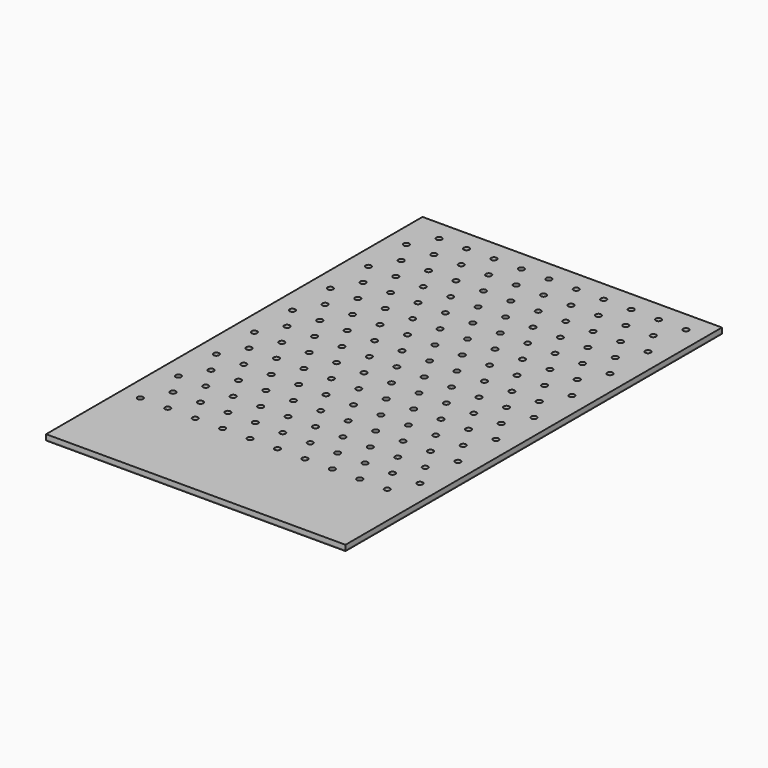
from build123d import *

# Parameters (mm, degrees)
F0_W      = 322
F0_H      = 506
F0_R      = 3
F1_DEPTH  = 5
F2_R      = 3
F3_DEPTH  = 3
F4_W      = 322
F4_H      = 506
F4_R      = 3
F5_DEPTH  = 5
F5_FACE_W = 322
F5_FACE_H = 506
F5_FACE_R = 3
F6_DEPTH  = 1


with BuildPart() as f1:
    # F0 (on Top) → F1 (new body)
    with BuildSketch(Plane.XY):
        with Locations((140.25, 152.25)):
            Rectangle(F0_W, F0_H)
        Circle(F0_R, mode=Mode.SUBTRACT)
        with Locations((14.75, 25.547749)):
            Circle(F0_R, mode=Mode.SUBTRACT)
        with Locations((29.5, 0)):
            Circle(F0_R, mode=Mode.SUBTRACT)
        with Locations((59, 0)):
            Circle(F0_R, mode=Mode.SUBTRACT)
        with Locations((44.25, 25.547749)):
            Circle(F0_R, mode=Mode.SUBTRACT)
        with Locations((73.75, 25.547749)):
            Circle(F0_R, mode=Mode.SUBTRACT)
        with Locations((88.5, 0)):
            Circle(F0_R, mode=Mode.SUBTRACT)
        with Locations((118, 0)):
            Circle(F0_R, mode=Mode.SUBTRACT)
        with Locations((103.25, 25.547749)):
            Circle(F0_R, mode=Mode.SUBTRACT)
        with Locations((132.75, 25.547749)):
            Circle(F0_R, mode=Mode.SUBTRACT)
        with Locations((0, 51.095)):
            Circle(F0_R, mode=Mode.SUBTRACT)
        with Locations((14.75, 76.642749)):
            Circle(F0_R, mode=Mode.SUBTRACT)
        with Locations((29.5, 51.095)):
            Circle(F0_R, mode=Mode.SUBTRACT)
        with Locations((59, 51.095)):
            Circle(F0_R, mode=Mode.SUBTRACT)
        with Locations((44.25, 76.642749)):
            Circle(F0_R, mode=Mode.SUBTRACT)
        with Locations((0, 102.19)):
            Circle(F0_R, mode=Mode.SUBTRACT)
        with Locations((14.75, 127.737749)):
            Circle(F0_R, mode=Mode.SUBTRACT)
        with Locations((29.5, 102.19)):
            Circle(F0_R, mode=Mode.SUBTRACT)
        with Locations((59, 102.19)):
            Circle(F0_R, mode=Mode.SUBTRACT)
        with Locations((44.25, 127.737749)):
            Circle(F0_R, mode=Mode.SUBTRACT)
        with Locations((88.5, 51.095)):
            Circle(F0_R, mode=Mode.SUBTRACT)
        with Locations((73.75, 76.642749)):
            Circle(F0_R, mode=Mode.SUBTRACT)
        with Locations((118, 51.095)):
            Circle(F0_R, mode=Mode.SUBTRACT)
        with Locations((103.25, 76.642749)):
            Circle(F0_R, mode=Mode.SUBTRACT)
        with Locations((132.75, 76.642749)):
            Circle(F0_R, mode=Mode.SUBTRACT)
        with Locations((88.5, 102.19)):
            Circle(F0_R, mode=Mode.SUBTRACT)
        with Locations((73.75, 127.737749)):
            Circle(F0_R, mode=Mode.SUBTRACT)
        with Locations((118, 102.19)):
            Circle(F0_R, mode=Mode.SUBTRACT)
        with Locations((103.25, 127.737749)):
            Circle(F0_R, mode=Mode.SUBTRACT)
        with Locations((132.75, 127.737749)):
            Circle(F0_R, mode=Mode.SUBTRACT)
        with Locations((147.5, 0)):
            Circle(F0_R, mode=Mode.SUBTRACT)
        with Locations((177, 0)):
            Circle(F0_R, mode=Mode.SUBTRACT)
        with Locations((162.25, 25.547749)):
            Circle(F0_R, mode=Mode.SUBTRACT)
        with Locations((191.75, 25.547749)):
            Circle(F0_R, mode=Mode.SUBTRACT)
        with Locations((206.5, 0)):
            Circle(F0_R, mode=Mode.SUBTRACT)
        with Locations((236, 0)):
            Circle(F0_R, mode=Mode.SUBTRACT)
        with Locations((221.25, 25.547749)):
            Circle(F0_R, mode=Mode.SUBTRACT)
        with Locations((250.75, 25.547749)):
            Circle(F0_R, mode=Mode.SUBTRACT)
        with Locations((265.5, 0)):
            Circle(F0_R, mode=Mode.SUBTRACT)
        with Locations((280.25, 25.547749)):
            Circle(F0_R, mode=Mode.SUBTRACT)
        with Locations((147.5, 51.095)):
            Circle(F0_R, mode=Mode.SUBTRACT)
        with Locations((177, 51.095)):
            Circle(F0_R, mode=Mode.SUBTRACT)
        with Locations((162.25, 76.642749)):
            Circle(F0_R, mode=Mode.SUBTRACT)
        with Locations((206.5, 51.095)):
            Circle(F0_R, mode=Mode.SUBTRACT)
        with Locations((191.75, 76.642749)):
            Circle(F0_R, mode=Mode.SUBTRACT)
        with Locations((147.5, 102.19)):
            Circle(F0_R, mode=Mode.SUBTRACT)
        with Locations((177, 102.19)):
            Circle(F0_R, mode=Mode.SUBTRACT)
        with Locations((162.25, 127.737749)):
            Circle(F0_R, mode=Mode.SUBTRACT)
        with Locations((206.5, 102.19)):
            Circle(F0_R, mode=Mode.SUBTRACT)
        with Locations((191.75, 127.737749)):
            Circle(F0_R, mode=Mode.SUBTRACT)
        with Locations((236, 51.095)):
            Circle(F0_R, mode=Mode.SUBTRACT)
        with Locations((221.25, 76.642749)):
            Circle(F0_R, mode=Mode.SUBTRACT)
        with Locations((250.75, 76.642749)):
            Circle(F0_R, mode=Mode.SUBTRACT)
        with Locations((265.5, 51.095)):
            Circle(F0_R, mode=Mode.SUBTRACT)
        with Locations((280.25, 76.642749)):
            Circle(F0_R, mode=Mode.SUBTRACT)
        with Locations((236, 102.19)):
            Circle(F0_R, mode=Mode.SUBTRACT)
        with Locations((221.25, 127.737749)):
            Circle(F0_R, mode=Mode.SUBTRACT)
        with Locations((250.75, 127.737749)):
            Circle(F0_R, mode=Mode.SUBTRACT)
        with Locations((265.5, 102.19)):
            Circle(F0_R, mode=Mode.SUBTRACT)
        with Locations((280.25, 127.737749)):
            Circle(F0_R, mode=Mode.SUBTRACT)
        with Locations((0, 153.285)):
            Circle(F0_R, mode=Mode.SUBTRACT)
        with Locations((14.75, 178.832749)):
            Circle(F0_R, mode=Mode.SUBTRACT)
        with Locations((0, 204.38)):
            Circle(F0_R, mode=Mode.SUBTRACT)
        with Locations((29.5, 153.285)):
            Circle(F0_R, mode=Mode.SUBTRACT)
        with Locations((59, 153.285)):
            Circle(F0_R, mode=Mode.SUBTRACT)
        with Locations((44.25, 178.832749)):
            Circle(F0_R, mode=Mode.SUBTRACT)
        with Locations((29.5, 204.38)):
            Circle(F0_R, mode=Mode.SUBTRACT)
        with Locations((59, 204.38)):
            Circle(F0_R, mode=Mode.SUBTRACT)
        with Locations((14.75, 229.927749)):
            Circle(F0_R, mode=Mode.SUBTRACT)
        with Locations((0, 255.475)):
            Circle(F0_R, mode=Mode.SUBTRACT)
        with Locations((44.25, 229.927749)):
            Circle(F0_R, mode=Mode.SUBTRACT)
        with Locations((29.5, 255.475)):
            Circle(F0_R, mode=Mode.SUBTRACT)
        with Locations((59, 255.475)):
            Circle(F0_R, mode=Mode.SUBTRACT)
        with Locations((73.75, 178.832749)):
            Circle(F0_R, mode=Mode.SUBTRACT)
        with Locations((88.5, 153.285)):
            Circle(F0_R, mode=Mode.SUBTRACT)
        with Locations((88.5, 204.38)):
            Circle(F0_R, mode=Mode.SUBTRACT)
        with Locations((118, 153.285)):
            Circle(F0_R, mode=Mode.SUBTRACT)
        with Locations((103.25, 178.832749)):
            Circle(F0_R, mode=Mode.SUBTRACT)
        with Locations((132.75, 178.832749)):
            Circle(F0_R, mode=Mode.SUBTRACT)
        with Locations((118, 204.38)):
            Circle(F0_R, mode=Mode.SUBTRACT)
        with Locations((73.75, 229.927749)):
            Circle(F0_R, mode=Mode.SUBTRACT)
        with Locations((88.5, 255.475)):
            Circle(F0_R, mode=Mode.SUBTRACT)
        with Locations((103.25, 229.927749)):
            Circle(F0_R, mode=Mode.SUBTRACT)
        with Locations((132.75, 229.927749)):
            Circle(F0_R, mode=Mode.SUBTRACT)
        with Locations((118, 255.475)):
            Circle(F0_R, mode=Mode.SUBTRACT)
        with Locations((14.75, 281.022749)):
            Circle(F0_R, mode=Mode.SUBTRACT)
        with Locations((0, 306.57)):
            Circle(F0_R, mode=Mode.SUBTRACT)
        with Locations((14.75, 332.117749)):
            Circle(F0_R, mode=Mode.SUBTRACT)
        with Locations((29.5, 306.57)):
            Circle(F0_R, mode=Mode.SUBTRACT)
        with Locations((44.25, 281.022749)):
            Circle(F0_R, mode=Mode.SUBTRACT)
        with Locations((59, 306.57)):
            Circle(F0_R, mode=Mode.SUBTRACT)
        with Locations((44.25, 332.117749)):
            Circle(F0_R, mode=Mode.SUBTRACT)
        with Locations((0, 357.665)):
            Circle(F0_R, mode=Mode.SUBTRACT)
        with Locations((14.75, 383.212749)):
            Circle(F0_R, mode=Mode.SUBTRACT)
        with Locations((29.5, 357.665)):
            Circle(F0_R, mode=Mode.SUBTRACT)
        with Locations((59, 357.665)):
            Circle(F0_R, mode=Mode.SUBTRACT)
        with Locations((44.25, 383.212749)):
            Circle(F0_R, mode=Mode.SUBTRACT)
        with Locations((73.75, 281.022749)):
            Circle(F0_R, mode=Mode.SUBTRACT)
        with Locations((88.5, 306.57)):
            Circle(F0_R, mode=Mode.SUBTRACT)
        with Locations((73.75, 332.117749)):
            Circle(F0_R, mode=Mode.SUBTRACT)
        with Locations((103.25, 281.022749)):
            Circle(F0_R, mode=Mode.SUBTRACT)
        with Locations((118, 306.57)):
            Circle(F0_R, mode=Mode.SUBTRACT)
        with Locations((132.75, 281.022749)):
            Circle(F0_R, mode=Mode.SUBTRACT)
        with Locations((103.25, 332.117749)):
            Circle(F0_R, mode=Mode.SUBTRACT)
        with Locations((132.75, 332.117749)):
            Circle(F0_R, mode=Mode.SUBTRACT)
        with Locations((88.5, 357.665)):
            Circle(F0_R, mode=Mode.SUBTRACT)
        with Locations((73.75, 383.212749)):
            Circle(F0_R, mode=Mode.SUBTRACT)
        with Locations((118, 357.665)):
            Circle(F0_R, mode=Mode.SUBTRACT)
        with Locations((103.25, 383.212749)):
            Circle(F0_R, mode=Mode.SUBTRACT)
        with Locations((132.75, 383.212749)):
            Circle(F0_R, mode=Mode.SUBTRACT)
        with Locations((147.5, 153.285)):
            Circle(F0_R, mode=Mode.SUBTRACT)
        with Locations((177, 153.285)):
            Circle(F0_R, mode=Mode.SUBTRACT)
        with Locations((162.25, 178.832749)):
            Circle(F0_R, mode=Mode.SUBTRACT)
        with Locations((147.5, 204.38)):
            Circle(F0_R, mode=Mode.SUBTRACT)
        with Locations((177, 204.38)):
            Circle(F0_R, mode=Mode.SUBTRACT)
        with Locations((191.75, 178.832749)):
            Circle(F0_R, mode=Mode.SUBTRACT)
        with Locations((206.5, 153.285)):
            Circle(F0_R, mode=Mode.SUBTRACT)
        with Locations((206.5, 204.38)):
            Circle(F0_R, mode=Mode.SUBTRACT)
        with Locations((162.25, 229.927749)):
            Circle(F0_R, mode=Mode.SUBTRACT)
        with Locations((147.5, 255.475)):
            Circle(F0_R, mode=Mode.SUBTRACT)
        with Locations((177, 255.475)):
            Circle(F0_R, mode=Mode.SUBTRACT)
        with Locations((191.75, 229.927749)):
            Circle(F0_R, mode=Mode.SUBTRACT)
        with Locations((206.5, 255.475)):
            Circle(F0_R, mode=Mode.SUBTRACT)
        with Locations((236, 153.285)):
            Circle(F0_R, mode=Mode.SUBTRACT)
        with Locations((221.25, 178.832749)):
            Circle(F0_R, mode=Mode.SUBTRACT)
        with Locations((250.75, 178.832749)):
            Circle(F0_R, mode=Mode.SUBTRACT)
        with Locations((236, 204.38)):
            Circle(F0_R, mode=Mode.SUBTRACT)
        with Locations((265.5, 153.285)):
            Circle(F0_R, mode=Mode.SUBTRACT)
        with Locations((280.25, 178.832749)):
            Circle(F0_R, mode=Mode.SUBTRACT)
        with Locations((265.5, 204.38)):
            Circle(F0_R, mode=Mode.SUBTRACT)
        with Locations((221.25, 229.927749)):
            Circle(F0_R, mode=Mode.SUBTRACT)
        with Locations((250.75, 229.927749)):
            Circle(F0_R, mode=Mode.SUBTRACT)
        with Locations((236, 255.475)):
            Circle(F0_R, mode=Mode.SUBTRACT)
        with Locations((280.25, 229.927749)):
            Circle(F0_R, mode=Mode.SUBTRACT)
        with Locations((265.5, 255.475)):
            Circle(F0_R, mode=Mode.SUBTRACT)
        with Locations((147.5, 306.57)):
            Circle(F0_R, mode=Mode.SUBTRACT)
        with Locations((162.25, 281.022749)):
            Circle(F0_R, mode=Mode.SUBTRACT)
        with Locations((177, 306.57)):
            Circle(F0_R, mode=Mode.SUBTRACT)
        with Locations((162.25, 332.117749)):
            Circle(F0_R, mode=Mode.SUBTRACT)
        with Locations((191.75, 281.022749)):
            Circle(F0_R, mode=Mode.SUBTRACT)
        with Locations((206.5, 306.57)):
            Circle(F0_R, mode=Mode.SUBTRACT)
        with Locations((191.75, 332.117749)):
            Circle(F0_R, mode=Mode.SUBTRACT)
        with Locations((147.5, 357.665)):
            Circle(F0_R, mode=Mode.SUBTRACT)
        with Locations((177, 357.665)):
            Circle(F0_R, mode=Mode.SUBTRACT)
        with Locations((162.25, 383.212749)):
            Circle(F0_R, mode=Mode.SUBTRACT)
        with Locations((206.5, 357.665)):
            Circle(F0_R, mode=Mode.SUBTRACT)
        with Locations((191.75, 383.212749)):
            Circle(F0_R, mode=Mode.SUBTRACT)
        with Locations((221.25, 281.022749)):
            Circle(F0_R, mode=Mode.SUBTRACT)
        with Locations((236, 306.57)):
            Circle(F0_R, mode=Mode.SUBTRACT)
        with Locations((250.75, 281.022749)):
            Circle(F0_R, mode=Mode.SUBTRACT)
        with Locations((221.25, 332.117749)):
            Circle(F0_R, mode=Mode.SUBTRACT)
        with Locations((250.75, 332.117749)):
            Circle(F0_R, mode=Mode.SUBTRACT)
        with Locations((280.25, 281.022749)):
            Circle(F0_R, mode=Mode.SUBTRACT)
        with Locations((265.5, 306.57)):
            Circle(F0_R, mode=Mode.SUBTRACT)
        with Locations((280.25, 332.117749)):
            Circle(F0_R, mode=Mode.SUBTRACT)
        with Locations((236, 357.665)):
            Circle(F0_R, mode=Mode.SUBTRACT)
        with Locations((221.25, 383.212749)):
            Circle(F0_R, mode=Mode.SUBTRACT)
        with Locations((250.75, 383.212749)):
            Circle(F0_R, mode=Mode.SUBTRACT)
        with Locations((265.5, 357.665)):
            Circle(F0_R, mode=Mode.SUBTRACT)
        with Locations((280.25, 383.212749)):
            Circle(F0_R, mode=Mode.SUBTRACT)
    extrude(amount=F1_DEPTH)

    # F2 (on face) → F3 (cut)
    with BuildSketch(Plane(origin=(0, 0, 0), x_dir=(1, 0, 0), z_dir=(0, 0, -1))):
        with Locations((20.25, 70.75)):
            Circle(F2_R)
        with Locations((80.25, 70.75)):
            Circle(F2_R)
        with Locations((140.25, 70.75)):
            Circle(F2_R)
        with Locations((200.25, 70.75)):
            Circle(F2_R)
        with Locations((260.25, 70.75)):
            Circle(F2_R)
    extrude(amount=-F3_DEPTH, mode=Mode.SUBTRACT)

    # F4 (on face) → F5 (join)
    with BuildSketch(Plane(origin=(0, 0, 0), x_dir=(1, 0, 0), z_dir=(0, 0, -1))):
        with Locations((140.25, -152.25)):
            Rectangle(F4_W, F4_H)
        with Locations((14.75, -383.212749)):
            Circle(F4_R, mode=Mode.SUBTRACT)
        with Locations((0, -357.665)):
            Circle(F4_R, mode=Mode.SUBTRACT)
        with Locations((44.25, -383.212749)):
            Circle(F4_R, mode=Mode.SUBTRACT)
        with Locations((29.5, -357.665)):
            Circle(F4_R, mode=Mode.SUBTRACT)
        with Locations((59, -357.665)):
            Circle(F4_R, mode=Mode.SUBTRACT)
        with Locations((14.75, -332.117749)):
            Circle(F4_R, mode=Mode.SUBTRACT)
        with Locations((0, -306.57)):
            Circle(F4_R, mode=Mode.SUBTRACT)
        with Locations((14.75, -281.022749)):
            Circle(F4_R, mode=Mode.SUBTRACT)
        with Locations((44.25, -332.117749)):
            Circle(F4_R, mode=Mode.SUBTRACT)
        with Locations((29.5, -306.57)):
            Circle(F4_R, mode=Mode.SUBTRACT)
        with Locations((59, -306.57)):
            Circle(F4_R, mode=Mode.SUBTRACT)
        with Locations((44.25, -281.022749)):
            Circle(F4_R, mode=Mode.SUBTRACT)
        with Locations((73.75, -383.212749)):
            Circle(F4_R, mode=Mode.SUBTRACT)
        with Locations((88.5, -357.665)):
            Circle(F4_R, mode=Mode.SUBTRACT)
        with Locations((103.25, -383.212749)):
            Circle(F4_R, mode=Mode.SUBTRACT)
        with Locations((132.75, -383.212749)):
            Circle(F4_R, mode=Mode.SUBTRACT)
        with Locations((118, -357.665)):
            Circle(F4_R, mode=Mode.SUBTRACT)
        with Locations((73.75, -332.117749)):
            Circle(F4_R, mode=Mode.SUBTRACT)
        with Locations((73.75, -281.022749)):
            Circle(F4_R, mode=Mode.SUBTRACT)
        with Locations((88.5, -306.57)):
            Circle(F4_R, mode=Mode.SUBTRACT)
        with Locations((103.25, -332.117749)):
            Circle(F4_R, mode=Mode.SUBTRACT)
        with Locations((132.75, -332.117749)):
            Circle(F4_R, mode=Mode.SUBTRACT)
        with Locations((118, -306.57)):
            Circle(F4_R, mode=Mode.SUBTRACT)
        with Locations((103.25, -281.022749)):
            Circle(F4_R, mode=Mode.SUBTRACT)
        with Locations((132.75, -281.022749)):
            Circle(F4_R, mode=Mode.SUBTRACT)
        with Locations((0, -255.475)):
            Circle(F4_R, mode=Mode.SUBTRACT)
        with Locations((14.75, -229.927749)):
            Circle(F4_R, mode=Mode.SUBTRACT)
        with Locations((29.5, -255.475)):
            Circle(F4_R, mode=Mode.SUBTRACT)
        with Locations((59, -255.475)):
            Circle(F4_R, mode=Mode.SUBTRACT)
        with Locations((44.25, -229.927749)):
            Circle(F4_R, mode=Mode.SUBTRACT)
        with Locations((0, -204.38)):
            Circle(F4_R, mode=Mode.SUBTRACT)
        with Locations((14.75, -178.832749)):
            Circle(F4_R, mode=Mode.SUBTRACT)
        with Locations((0, -153.285)):
            Circle(F4_R, mode=Mode.SUBTRACT)
        with Locations((29.5, -204.38)):
            Circle(F4_R, mode=Mode.SUBTRACT)
        with Locations((59, -204.38)):
            Circle(F4_R, mode=Mode.SUBTRACT)
        with Locations((29.5, -153.285)):
            Circle(F4_R, mode=Mode.SUBTRACT)
        with Locations((44.25, -178.832749)):
            Circle(F4_R, mode=Mode.SUBTRACT)
        with Locations((59, -153.285)):
            Circle(F4_R, mode=Mode.SUBTRACT)
        with Locations((88.5, -255.475)):
            Circle(F4_R, mode=Mode.SUBTRACT)
        with Locations((73.75, -229.927749)):
            Circle(F4_R, mode=Mode.SUBTRACT)
        with Locations((118, -255.475)):
            Circle(F4_R, mode=Mode.SUBTRACT)
        with Locations((103.25, -229.927749)):
            Circle(F4_R, mode=Mode.SUBTRACT)
        with Locations((132.75, -229.927749)):
            Circle(F4_R, mode=Mode.SUBTRACT)
        with Locations((88.5, -204.38)):
            Circle(F4_R, mode=Mode.SUBTRACT)
        with Locations((73.75, -178.832749)):
            Circle(F4_R, mode=Mode.SUBTRACT)
        with Locations((88.5, -153.285)):
            Circle(F4_R, mode=Mode.SUBTRACT)
        with Locations((118, -204.38)):
            Circle(F4_R, mode=Mode.SUBTRACT)
        with Locations((103.25, -178.832749)):
            Circle(F4_R, mode=Mode.SUBTRACT)
        with Locations((118, -153.285)):
            Circle(F4_R, mode=Mode.SUBTRACT)
        with Locations((132.75, -178.832749)):
            Circle(F4_R, mode=Mode.SUBTRACT)
        with Locations((162.25, -383.212749)):
            Circle(F4_R, mode=Mode.SUBTRACT)
        with Locations((147.5, -357.665)):
            Circle(F4_R, mode=Mode.SUBTRACT)
        with Locations((177, -357.665)):
            Circle(F4_R, mode=Mode.SUBTRACT)
        with Locations((191.75, -383.212749)):
            Circle(F4_R, mode=Mode.SUBTRACT)
        with Locations((206.5, -357.665)):
            Circle(F4_R, mode=Mode.SUBTRACT)
        with Locations((162.25, -332.117749)):
            Circle(F4_R, mode=Mode.SUBTRACT)
        with Locations((147.5, -306.57)):
            Circle(F4_R, mode=Mode.SUBTRACT)
        with Locations((177, -306.57)):
            Circle(F4_R, mode=Mode.SUBTRACT)
        with Locations((162.25, -281.022749)):
            Circle(F4_R, mode=Mode.SUBTRACT)
        with Locations((191.75, -332.117749)):
            Circle(F4_R, mode=Mode.SUBTRACT)
        with Locations((191.75, -281.022749)):
            Circle(F4_R, mode=Mode.SUBTRACT)
        with Locations((206.5, -306.57)):
            Circle(F4_R, mode=Mode.SUBTRACT)
        with Locations((221.25, -383.212749)):
            Circle(F4_R, mode=Mode.SUBTRACT)
        with Locations((250.75, -383.212749)):
            Circle(F4_R, mode=Mode.SUBTRACT)
        with Locations((236, -357.665)):
            Circle(F4_R, mode=Mode.SUBTRACT)
        with Locations((280.25, -383.212749)):
            Circle(F4_R, mode=Mode.SUBTRACT)
        with Locations((265.5, -357.665)):
            Circle(F4_R, mode=Mode.SUBTRACT)
        with Locations((221.25, -332.117749)):
            Circle(F4_R, mode=Mode.SUBTRACT)
        with Locations((250.75, -332.117749)):
            Circle(F4_R, mode=Mode.SUBTRACT)
        with Locations((236, -306.57)):
            Circle(F4_R, mode=Mode.SUBTRACT)
        with Locations((221.25, -281.022749)):
            Circle(F4_R, mode=Mode.SUBTRACT)
        with Locations((250.75, -281.022749)):
            Circle(F4_R, mode=Mode.SUBTRACT)
        with Locations((280.25, -332.117749)):
            Circle(F4_R, mode=Mode.SUBTRACT)
        with Locations((265.5, -306.57)):
            Circle(F4_R, mode=Mode.SUBTRACT)
        with Locations((280.25, -281.022749)):
            Circle(F4_R, mode=Mode.SUBTRACT)
        with Locations((147.5, -255.475)):
            Circle(F4_R, mode=Mode.SUBTRACT)
        with Locations((177, -255.475)):
            Circle(F4_R, mode=Mode.SUBTRACT)
        with Locations((162.25, -229.927749)):
            Circle(F4_R, mode=Mode.SUBTRACT)
        with Locations((206.5, -255.475)):
            Circle(F4_R, mode=Mode.SUBTRACT)
        with Locations((191.75, -229.927749)):
            Circle(F4_R, mode=Mode.SUBTRACT)
        with Locations((147.5, -204.38)):
            Circle(F4_R, mode=Mode.SUBTRACT)
        with Locations((177, -204.38)):
            Circle(F4_R, mode=Mode.SUBTRACT)
        with Locations((147.5, -153.285)):
            Circle(F4_R, mode=Mode.SUBTRACT)
        with Locations((162.25, -178.832749)):
            Circle(F4_R, mode=Mode.SUBTRACT)
        with Locations((177, -153.285)):
            Circle(F4_R, mode=Mode.SUBTRACT)
        with Locations((206.5, -204.38)):
            Circle(F4_R, mode=Mode.SUBTRACT)
        with Locations((191.75, -178.832749)):
            Circle(F4_R, mode=Mode.SUBTRACT)
        with Locations((206.5, -153.285)):
            Circle(F4_R, mode=Mode.SUBTRACT)
        with Locations((236, -255.475)):
            Circle(F4_R, mode=Mode.SUBTRACT)
        with Locations((221.25, -229.927749)):
            Circle(F4_R, mode=Mode.SUBTRACT)
        with Locations((250.75, -229.927749)):
            Circle(F4_R, mode=Mode.SUBTRACT)
        with Locations((265.5, -255.475)):
            Circle(F4_R, mode=Mode.SUBTRACT)
        with Locations((280.25, -229.927749)):
            Circle(F4_R, mode=Mode.SUBTRACT)
        with Locations((236, -204.38)):
            Circle(F4_R, mode=Mode.SUBTRACT)
        with Locations((221.25, -178.832749)):
            Circle(F4_R, mode=Mode.SUBTRACT)
        with Locations((236, -153.285)):
            Circle(F4_R, mode=Mode.SUBTRACT)
        with Locations((250.75, -178.832749)):
            Circle(F4_R, mode=Mode.SUBTRACT)
        with Locations((265.5, -204.38)):
            Circle(F4_R, mode=Mode.SUBTRACT)
        with Locations((280.25, -178.832749)):
            Circle(F4_R, mode=Mode.SUBTRACT)
        with Locations((265.5, -153.285)):
            Circle(F4_R, mode=Mode.SUBTRACT)
        with Locations((14.75, -127.737749)):
            Circle(F4_R, mode=Mode.SUBTRACT)
        with Locations((0, -102.19)):
            Circle(F4_R, mode=Mode.SUBTRACT)
        with Locations((44.25, -127.737749)):
            Circle(F4_R, mode=Mode.SUBTRACT)
        with Locations((29.5, -102.19)):
            Circle(F4_R, mode=Mode.SUBTRACT)
        with Locations((59, -102.19)):
            Circle(F4_R, mode=Mode.SUBTRACT)
        with Locations((14.75, -76.642749)):
            Circle(F4_R, mode=Mode.SUBTRACT)
        with Locations((0, -51.095)):
            Circle(F4_R, mode=Mode.SUBTRACT)
        with Locations((44.25, -76.642749)):
            Circle(F4_R, mode=Mode.SUBTRACT)
        with Locations((29.5, -51.095)):
            Circle(F4_R, mode=Mode.SUBTRACT)
        with Locations((59, -51.095)):
            Circle(F4_R, mode=Mode.SUBTRACT)
        with Locations((73.75, -127.737749)):
            Circle(F4_R, mode=Mode.SUBTRACT)
        with Locations((88.5, -102.19)):
            Circle(F4_R, mode=Mode.SUBTRACT)
        with Locations((103.25, -127.737749)):
            Circle(F4_R, mode=Mode.SUBTRACT)
        with Locations((132.75, -127.737749)):
            Circle(F4_R, mode=Mode.SUBTRACT)
        with Locations((118, -102.19)):
            Circle(F4_R, mode=Mode.SUBTRACT)
        with Locations((73.75, -76.642749)):
            Circle(F4_R, mode=Mode.SUBTRACT)
        with Locations((88.5, -51.095)):
            Circle(F4_R, mode=Mode.SUBTRACT)
        with Locations((103.25, -76.642749)):
            Circle(F4_R, mode=Mode.SUBTRACT)
        with Locations((132.75, -76.642749)):
            Circle(F4_R, mode=Mode.SUBTRACT)
        with Locations((118, -51.095)):
            Circle(F4_R, mode=Mode.SUBTRACT)
        with Locations((14.75, -25.547749)):
            Circle(F4_R, mode=Mode.SUBTRACT)
        Circle(F4_R, mode=Mode.SUBTRACT)
        with Locations((29.5, 0)):
            Circle(F4_R, mode=Mode.SUBTRACT)
        with Locations((44.25, -25.547749)):
            Circle(F4_R, mode=Mode.SUBTRACT)
        with Locations((59, 0)):
            Circle(F4_R, mode=Mode.SUBTRACT)
        with Locations((20.25, 70.75)):
            Circle(F4_R, mode=Mode.SUBTRACT)
        with Locations((73.75, -25.547749)):
            Circle(F4_R, mode=Mode.SUBTRACT)
        with Locations((88.5, 0)):
            Circle(F4_R, mode=Mode.SUBTRACT)
        with Locations((103.25, -25.547749)):
            Circle(F4_R, mode=Mode.SUBTRACT)
        with Locations((118, 0)):
            Circle(F4_R, mode=Mode.SUBTRACT)
        with Locations((132.75, -25.547749)):
            Circle(F4_R, mode=Mode.SUBTRACT)
        with Locations((80.25, 70.75)):
            Circle(F4_R, mode=Mode.SUBTRACT)
        with Locations((140.25, 70.75)):
            Circle(F4_R, mode=Mode.SUBTRACT)
        with Locations((162.25, -127.737749)):
            Circle(F4_R, mode=Mode.SUBTRACT)
        with Locations((147.5, -102.19)):
            Circle(F4_R, mode=Mode.SUBTRACT)
        with Locations((177, -102.19)):
            Circle(F4_R, mode=Mode.SUBTRACT)
        with Locations((191.75, -127.737749)):
            Circle(F4_R, mode=Mode.SUBTRACT)
        with Locations((206.5, -102.19)):
            Circle(F4_R, mode=Mode.SUBTRACT)
        with Locations((162.25, -76.642749)):
            Circle(F4_R, mode=Mode.SUBTRACT)
        with Locations((147.5, -51.095)):
            Circle(F4_R, mode=Mode.SUBTRACT)
        with Locations((177, -51.095)):
            Circle(F4_R, mode=Mode.SUBTRACT)
        with Locations((191.75, -76.642749)):
            Circle(F4_R, mode=Mode.SUBTRACT)
        with Locations((206.5, -51.095)):
            Circle(F4_R, mode=Mode.SUBTRACT)
        with Locations((221.25, -127.737749)):
            Circle(F4_R, mode=Mode.SUBTRACT)
        with Locations((250.75, -127.737749)):
            Circle(F4_R, mode=Mode.SUBTRACT)
        with Locations((236, -102.19)):
            Circle(F4_R, mode=Mode.SUBTRACT)
        with Locations((280.25, -127.737749)):
            Circle(F4_R, mode=Mode.SUBTRACT)
        with Locations((265.5, -102.19)):
            Circle(F4_R, mode=Mode.SUBTRACT)
        with Locations((221.25, -76.642749)):
            Circle(F4_R, mode=Mode.SUBTRACT)
        with Locations((250.75, -76.642749)):
            Circle(F4_R, mode=Mode.SUBTRACT)
        with Locations((236, -51.095)):
            Circle(F4_R, mode=Mode.SUBTRACT)
        with Locations((280.25, -76.642749)):
            Circle(F4_R, mode=Mode.SUBTRACT)
        with Locations((265.5, -51.095)):
            Circle(F4_R, mode=Mode.SUBTRACT)
        with Locations((147.5, 0)):
            Circle(F4_R, mode=Mode.SUBTRACT)
        with Locations((162.25, -25.547749)):
            Circle(F4_R, mode=Mode.SUBTRACT)
        with Locations((177, 0)):
            Circle(F4_R, mode=Mode.SUBTRACT)
        with Locations((191.75, -25.547749)):
            Circle(F4_R, mode=Mode.SUBTRACT)
        with Locations((206.5, 0)):
            Circle(F4_R, mode=Mode.SUBTRACT)
        with Locations((200.25, 70.75)):
            Circle(F4_R, mode=Mode.SUBTRACT)
        with Locations((221.25, -25.547749)):
            Circle(F4_R, mode=Mode.SUBTRACT)
        with Locations((236, 0)):
            Circle(F4_R, mode=Mode.SUBTRACT)
        with Locations((250.75, -25.547749)):
            Circle(F4_R, mode=Mode.SUBTRACT)
        with Locations((280.25, -25.547749)):
            Circle(F4_R, mode=Mode.SUBTRACT)
        with Locations((265.5, 0)):
            Circle(F4_R, mode=Mode.SUBTRACT)
        with Locations((260.25, 70.75)):
            Circle(F4_R, mode=Mode.SUBTRACT)
    extrude(amount=-F5_DEPTH)


with BuildPart() as f6:
    # F5_face (on face) → F6 (new body)
    with BuildSketch(Plane(origin=(140.253573, 151.324233, 0), x_dir=(1, 0, 0), z_dir=(0, 0, -1))):
        with Locations((-0.003573, -0.925767)):
            Rectangle(F5_FACE_W, F5_FACE_H)
        with Locations((-120.003573, 222.074233)):
            Circle(F5_FACE_R, mode=Mode.SUBTRACT)
        with Locations((-140.253573, 151.324233)):
            Circle(F5_FACE_R, mode=Mode.SUBTRACT)
        with Locations((-110.753573, 151.324233)):
            Circle(F5_FACE_R, mode=Mode.SUBTRACT)
        with Locations((-125.503573, 125.776483)):
            Circle(F5_FACE_R, mode=Mode.SUBTRACT)
        with Locations((-81.253573, 151.324233)):
            Circle(F5_FACE_R, mode=Mode.SUBTRACT)
        with Locations((-96.003573, 125.776483)):
            Circle(F5_FACE_R, mode=Mode.SUBTRACT)
        with Locations((-60.003573, 222.074233)):
            Circle(F5_FACE_R, mode=Mode.SUBTRACT)
        with Locations((-51.753573, 151.324233)):
            Circle(F5_FACE_R, mode=Mode.SUBTRACT)
        with Locations((-66.503573, 125.776483)):
            Circle(F5_FACE_R, mode=Mode.SUBTRACT)
        with Locations((-37.003573, 125.776483)):
            Circle(F5_FACE_R, mode=Mode.SUBTRACT)
        with Locations((-22.253573, 151.324233)):
            Circle(F5_FACE_R, mode=Mode.SUBTRACT)
        with Locations((-7.503573, 125.776483)):
            Circle(F5_FACE_R, mode=Mode.SUBTRACT)
        with Locations((-140.253573, 100.229233)):
            Circle(F5_FACE_R, mode=Mode.SUBTRACT)
        with Locations((-110.753573, 100.229233)):
            Circle(F5_FACE_R, mode=Mode.SUBTRACT)
        with Locations((-125.503573, 74.681483)):
            Circle(F5_FACE_R, mode=Mode.SUBTRACT)
        with Locations((-81.253573, 100.229233)):
            Circle(F5_FACE_R, mode=Mode.SUBTRACT)
        with Locations((-96.003573, 74.681483)):
            Circle(F5_FACE_R, mode=Mode.SUBTRACT)
        with Locations((-140.253573, 49.134233)):
            Circle(F5_FACE_R, mode=Mode.SUBTRACT)
        with Locations((-110.753573, 49.134233)):
            Circle(F5_FACE_R, mode=Mode.SUBTRACT)
        with Locations((-125.503573, 23.586483)):
            Circle(F5_FACE_R, mode=Mode.SUBTRACT)
        with Locations((-140.253573, -1.960767)):
            Circle(F5_FACE_R, mode=Mode.SUBTRACT)
        with Locations((-110.753573, -1.960767)):
            Circle(F5_FACE_R, mode=Mode.SUBTRACT)
        with Locations((-81.253573, 49.134233)):
            Circle(F5_FACE_R, mode=Mode.SUBTRACT)
        with Locations((-96.003573, 23.586483)):
            Circle(F5_FACE_R, mode=Mode.SUBTRACT)
        with Locations((-81.253573, -1.960767)):
            Circle(F5_FACE_R, mode=Mode.SUBTRACT)
        with Locations((-51.753573, 100.229233)):
            Circle(F5_FACE_R, mode=Mode.SUBTRACT)
        with Locations((-66.503573, 74.681483)):
            Circle(F5_FACE_R, mode=Mode.SUBTRACT)
        with Locations((-37.003573, 74.681483)):
            Circle(F5_FACE_R, mode=Mode.SUBTRACT)
        with Locations((-22.253573, 100.229233)):
            Circle(F5_FACE_R, mode=Mode.SUBTRACT)
        with Locations((-7.503573, 74.681483)):
            Circle(F5_FACE_R, mode=Mode.SUBTRACT)
        with Locations((-51.753573, 49.134233)):
            Circle(F5_FACE_R, mode=Mode.SUBTRACT)
        with Locations((-66.503573, 23.586483)):
            Circle(F5_FACE_R, mode=Mode.SUBTRACT)
        with Locations((-37.003573, 23.586483)):
            Circle(F5_FACE_R, mode=Mode.SUBTRACT)
        with Locations((-51.753573, -1.960767)):
            Circle(F5_FACE_R, mode=Mode.SUBTRACT)
        with Locations((-22.253573, 49.134233)):
            Circle(F5_FACE_R, mode=Mode.SUBTRACT)
        with Locations((-22.253573, -1.960767)):
            Circle(F5_FACE_R, mode=Mode.SUBTRACT)
        with Locations((-7.503573, 23.586483)):
            Circle(F5_FACE_R, mode=Mode.SUBTRACT)
        with Locations((-0.003573, 222.074233)):
            Circle(F5_FACE_R, mode=Mode.SUBTRACT)
        with Locations((59.996427, 222.074233)):
            Circle(F5_FACE_R, mode=Mode.SUBTRACT)
        with Locations((7.246427, 151.324233)):
            Circle(F5_FACE_R, mode=Mode.SUBTRACT)
        with Locations((21.996427, 125.776483)):
            Circle(F5_FACE_R, mode=Mode.SUBTRACT)
        with Locations((36.746427, 151.324233)):
            Circle(F5_FACE_R, mode=Mode.SUBTRACT)
        with Locations((66.246427, 151.324233)):
            Circle(F5_FACE_R, mode=Mode.SUBTRACT)
        with Locations((51.496427, 125.776483)):
            Circle(F5_FACE_R, mode=Mode.SUBTRACT)
        with Locations((119.996427, 222.074233)):
            Circle(F5_FACE_R, mode=Mode.SUBTRACT)
        with Locations((95.746427, 151.324233)):
            Circle(F5_FACE_R, mode=Mode.SUBTRACT)
        with Locations((80.996427, 125.776483)):
            Circle(F5_FACE_R, mode=Mode.SUBTRACT)
        with Locations((125.246427, 151.324233)):
            Circle(F5_FACE_R, mode=Mode.SUBTRACT)
        with Locations((110.496427, 125.776483)):
            Circle(F5_FACE_R, mode=Mode.SUBTRACT)
        with Locations((139.996427, 125.776483)):
            Circle(F5_FACE_R, mode=Mode.SUBTRACT)
        with Locations((7.246427, 100.229233)):
            Circle(F5_FACE_R, mode=Mode.SUBTRACT)
        with Locations((21.996427, 74.681483)):
            Circle(F5_FACE_R, mode=Mode.SUBTRACT)
        with Locations((36.746427, 100.229233)):
            Circle(F5_FACE_R, mode=Mode.SUBTRACT)
        with Locations((66.246427, 100.229233)):
            Circle(F5_FACE_R, mode=Mode.SUBTRACT)
        with Locations((51.496427, 74.681483)):
            Circle(F5_FACE_R, mode=Mode.SUBTRACT)
        with Locations((7.246427, 49.134233)):
            Circle(F5_FACE_R, mode=Mode.SUBTRACT)
        with Locations((7.246427, -1.960767)):
            Circle(F5_FACE_R, mode=Mode.SUBTRACT)
        with Locations((21.996427, 23.586483)):
            Circle(F5_FACE_R, mode=Mode.SUBTRACT)
        with Locations((36.746427, 49.134233)):
            Circle(F5_FACE_R, mode=Mode.SUBTRACT)
        with Locations((66.246427, 49.134233)):
            Circle(F5_FACE_R, mode=Mode.SUBTRACT)
        with Locations((51.496427, 23.586483)):
            Circle(F5_FACE_R, mode=Mode.SUBTRACT)
        with Locations((36.746427, -1.960767)):
            Circle(F5_FACE_R, mode=Mode.SUBTRACT)
        with Locations((66.246427, -1.960767)):
            Circle(F5_FACE_R, mode=Mode.SUBTRACT)
        with Locations((95.746427, 100.229233)):
            Circle(F5_FACE_R, mode=Mode.SUBTRACT)
        with Locations((80.996427, 74.681483)):
            Circle(F5_FACE_R, mode=Mode.SUBTRACT)
        with Locations((125.246427, 100.229233)):
            Circle(F5_FACE_R, mode=Mode.SUBTRACT)
        with Locations((110.496427, 74.681483)):
            Circle(F5_FACE_R, mode=Mode.SUBTRACT)
        with Locations((139.996427, 74.681483)):
            Circle(F5_FACE_R, mode=Mode.SUBTRACT)
        with Locations((95.746427, 49.134233)):
            Circle(F5_FACE_R, mode=Mode.SUBTRACT)
        with Locations((80.996427, 23.586483)):
            Circle(F5_FACE_R, mode=Mode.SUBTRACT)
        with Locations((95.746427, -1.960767)):
            Circle(F5_FACE_R, mode=Mode.SUBTRACT)
        with Locations((125.246427, 49.134233)):
            Circle(F5_FACE_R, mode=Mode.SUBTRACT)
        with Locations((110.496427, 23.586483)):
            Circle(F5_FACE_R, mode=Mode.SUBTRACT)
        with Locations((139.996427, 23.586483)):
            Circle(F5_FACE_R, mode=Mode.SUBTRACT)
        with Locations((125.246427, -1.960767)):
            Circle(F5_FACE_R, mode=Mode.SUBTRACT)
        with Locations((-125.503573, -27.508517)):
            Circle(F5_FACE_R, mode=Mode.SUBTRACT)
        with Locations((-140.253573, -53.055767)):
            Circle(F5_FACE_R, mode=Mode.SUBTRACT)
        with Locations((-110.753573, -53.055767)):
            Circle(F5_FACE_R, mode=Mode.SUBTRACT)
        with Locations((-96.003573, -27.508517)):
            Circle(F5_FACE_R, mode=Mode.SUBTRACT)
        with Locations((-81.253573, -53.055767)):
            Circle(F5_FACE_R, mode=Mode.SUBTRACT)
        with Locations((-125.503573, -78.603517)):
            Circle(F5_FACE_R, mode=Mode.SUBTRACT)
        with Locations((-140.253573, -104.150767)):
            Circle(F5_FACE_R, mode=Mode.SUBTRACT)
        with Locations((-110.753573, -104.150767)):
            Circle(F5_FACE_R, mode=Mode.SUBTRACT)
        with Locations((-96.003573, -78.603517)):
            Circle(F5_FACE_R, mode=Mode.SUBTRACT)
        with Locations((-81.253573, -104.150767)):
            Circle(F5_FACE_R, mode=Mode.SUBTRACT)
        with Locations((-66.503573, -27.508517)):
            Circle(F5_FACE_R, mode=Mode.SUBTRACT)
        with Locations((-37.003573, -27.508517)):
            Circle(F5_FACE_R, mode=Mode.SUBTRACT)
        with Locations((-51.753573, -53.055767)):
            Circle(F5_FACE_R, mode=Mode.SUBTRACT)
        with Locations((-7.503573, -27.508517)):
            Circle(F5_FACE_R, mode=Mode.SUBTRACT)
        with Locations((-22.253573, -53.055767)):
            Circle(F5_FACE_R, mode=Mode.SUBTRACT)
        with Locations((-66.503573, -78.603517)):
            Circle(F5_FACE_R, mode=Mode.SUBTRACT)
        with Locations((-37.003573, -78.603517)):
            Circle(F5_FACE_R, mode=Mode.SUBTRACT)
        with Locations((-51.753573, -104.150767)):
            Circle(F5_FACE_R, mode=Mode.SUBTRACT)
        with Locations((-7.503573, -78.603517)):
            Circle(F5_FACE_R, mode=Mode.SUBTRACT)
        with Locations((-22.253573, -104.150767)):
            Circle(F5_FACE_R, mode=Mode.SUBTRACT)
        with Locations((-125.503573, -129.698517)):
            Circle(F5_FACE_R, mode=Mode.SUBTRACT)
        with Locations((-140.253573, -155.245767)):
            Circle(F5_FACE_R, mode=Mode.SUBTRACT)
        with Locations((-110.753573, -155.245767)):
            Circle(F5_FACE_R, mode=Mode.SUBTRACT)
        with Locations((-96.003573, -129.698517)):
            Circle(F5_FACE_R, mode=Mode.SUBTRACT)
        with Locations((-81.253573, -155.245767)):
            Circle(F5_FACE_R, mode=Mode.SUBTRACT)
        with Locations((-125.503573, -180.793517)):
            Circle(F5_FACE_R, mode=Mode.SUBTRACT)
        with Locations((-140.253573, -206.340767)):
            Circle(F5_FACE_R, mode=Mode.SUBTRACT)
        with Locations((-125.503573, -231.888517)):
            Circle(F5_FACE_R, mode=Mode.SUBTRACT)
        with Locations((-110.753573, -206.340767)):
            Circle(F5_FACE_R, mode=Mode.SUBTRACT)
        with Locations((-96.003573, -180.793517)):
            Circle(F5_FACE_R, mode=Mode.SUBTRACT)
        with Locations((-96.003573, -231.888517)):
            Circle(F5_FACE_R, mode=Mode.SUBTRACT)
        with Locations((-81.253573, -206.340767)):
            Circle(F5_FACE_R, mode=Mode.SUBTRACT)
        with Locations((-66.503573, -129.698517)):
            Circle(F5_FACE_R, mode=Mode.SUBTRACT)
        with Locations((-37.003573, -129.698517)):
            Circle(F5_FACE_R, mode=Mode.SUBTRACT)
        with Locations((-51.753573, -155.245767)):
            Circle(F5_FACE_R, mode=Mode.SUBTRACT)
        with Locations((-7.503573, -129.698517)):
            Circle(F5_FACE_R, mode=Mode.SUBTRACT)
        with Locations((-22.253573, -155.245767)):
            Circle(F5_FACE_R, mode=Mode.SUBTRACT)
        with Locations((-66.503573, -180.793517)):
            Circle(F5_FACE_R, mode=Mode.SUBTRACT)
        with Locations((-37.003573, -180.793517)):
            Circle(F5_FACE_R, mode=Mode.SUBTRACT)
        with Locations((-66.503573, -231.888517)):
            Circle(F5_FACE_R, mode=Mode.SUBTRACT)
        with Locations((-51.753573, -206.340767)):
            Circle(F5_FACE_R, mode=Mode.SUBTRACT)
        with Locations((-37.003573, -231.888517)):
            Circle(F5_FACE_R, mode=Mode.SUBTRACT)
        with Locations((-7.503573, -180.793517)):
            Circle(F5_FACE_R, mode=Mode.SUBTRACT)
        with Locations((-22.253573, -206.340767)):
            Circle(F5_FACE_R, mode=Mode.SUBTRACT)
        with Locations((-7.503573, -231.888517)):
            Circle(F5_FACE_R, mode=Mode.SUBTRACT)
        with Locations((21.996427, -27.508517)):
            Circle(F5_FACE_R, mode=Mode.SUBTRACT)
        with Locations((7.246427, -53.055767)):
            Circle(F5_FACE_R, mode=Mode.SUBTRACT)
        with Locations((51.496427, -27.508517)):
            Circle(F5_FACE_R, mode=Mode.SUBTRACT)
        with Locations((36.746427, -53.055767)):
            Circle(F5_FACE_R, mode=Mode.SUBTRACT)
        with Locations((66.246427, -53.055767)):
            Circle(F5_FACE_R, mode=Mode.SUBTRACT)
        with Locations((21.996427, -78.603517)):
            Circle(F5_FACE_R, mode=Mode.SUBTRACT)
        with Locations((7.246427, -104.150767)):
            Circle(F5_FACE_R, mode=Mode.SUBTRACT)
        with Locations((51.496427, -78.603517)):
            Circle(F5_FACE_R, mode=Mode.SUBTRACT)
        with Locations((36.746427, -104.150767)):
            Circle(F5_FACE_R, mode=Mode.SUBTRACT)
        with Locations((66.246427, -104.150767)):
            Circle(F5_FACE_R, mode=Mode.SUBTRACT)
        with Locations((80.996427, -27.508517)):
            Circle(F5_FACE_R, mode=Mode.SUBTRACT)
        with Locations((95.746427, -53.055767)):
            Circle(F5_FACE_R, mode=Mode.SUBTRACT)
        with Locations((110.496427, -27.508517)):
            Circle(F5_FACE_R, mode=Mode.SUBTRACT)
        with Locations((139.996427, -27.508517)):
            Circle(F5_FACE_R, mode=Mode.SUBTRACT)
        with Locations((125.246427, -53.055767)):
            Circle(F5_FACE_R, mode=Mode.SUBTRACT)
        with Locations((80.996427, -78.603517)):
            Circle(F5_FACE_R, mode=Mode.SUBTRACT)
        with Locations((95.746427, -104.150767)):
            Circle(F5_FACE_R, mode=Mode.SUBTRACT)
        with Locations((110.496427, -78.603517)):
            Circle(F5_FACE_R, mode=Mode.SUBTRACT)
        with Locations((139.996427, -78.603517)):
            Circle(F5_FACE_R, mode=Mode.SUBTRACT)
        with Locations((125.246427, -104.150767)):
            Circle(F5_FACE_R, mode=Mode.SUBTRACT)
        with Locations((21.996427, -129.698517)):
            Circle(F5_FACE_R, mode=Mode.SUBTRACT)
        with Locations((7.246427, -155.245767)):
            Circle(F5_FACE_R, mode=Mode.SUBTRACT)
        with Locations((51.496427, -129.698517)):
            Circle(F5_FACE_R, mode=Mode.SUBTRACT)
        with Locations((36.746427, -155.245767)):
            Circle(F5_FACE_R, mode=Mode.SUBTRACT)
        with Locations((66.246427, -155.245767)):
            Circle(F5_FACE_R, mode=Mode.SUBTRACT)
        with Locations((21.996427, -180.793517)):
            Circle(F5_FACE_R, mode=Mode.SUBTRACT)
        with Locations((7.246427, -206.340767)):
            Circle(F5_FACE_R, mode=Mode.SUBTRACT)
        with Locations((21.996427, -231.888517)):
            Circle(F5_FACE_R, mode=Mode.SUBTRACT)
        with Locations((51.496427, -180.793517)):
            Circle(F5_FACE_R, mode=Mode.SUBTRACT)
        with Locations((36.746427, -206.340767)):
            Circle(F5_FACE_R, mode=Mode.SUBTRACT)
        with Locations((51.496427, -231.888517)):
            Circle(F5_FACE_R, mode=Mode.SUBTRACT)
        with Locations((66.246427, -206.340767)):
            Circle(F5_FACE_R, mode=Mode.SUBTRACT)
        with Locations((80.996427, -129.698517)):
            Circle(F5_FACE_R, mode=Mode.SUBTRACT)
        with Locations((95.746427, -155.245767)):
            Circle(F5_FACE_R, mode=Mode.SUBTRACT)
        with Locations((110.496427, -129.698517)):
            Circle(F5_FACE_R, mode=Mode.SUBTRACT)
        with Locations((139.996427, -129.698517)):
            Circle(F5_FACE_R, mode=Mode.SUBTRACT)
        with Locations((125.246427, -155.245767)):
            Circle(F5_FACE_R, mode=Mode.SUBTRACT)
        with Locations((80.996427, -180.793517)):
            Circle(F5_FACE_R, mode=Mode.SUBTRACT)
        with Locations((80.996427, -231.888517)):
            Circle(F5_FACE_R, mode=Mode.SUBTRACT)
        with Locations((95.746427, -206.340767)):
            Circle(F5_FACE_R, mode=Mode.SUBTRACT)
        with Locations((110.496427, -180.793517)):
            Circle(F5_FACE_R, mode=Mode.SUBTRACT)
        with Locations((139.996427, -180.793517)):
            Circle(F5_FACE_R, mode=Mode.SUBTRACT)
        with Locations((110.496427, -231.888517)):
            Circle(F5_FACE_R, mode=Mode.SUBTRACT)
        with Locations((125.246427, -206.340767)):
            Circle(F5_FACE_R, mode=Mode.SUBTRACT)
        with Locations((139.996427, -231.888517)):
            Circle(F5_FACE_R, mode=Mode.SUBTRACT)
    extrude(amount=F6_DEPTH)


solid = Compound([f1.part, f6.part])
